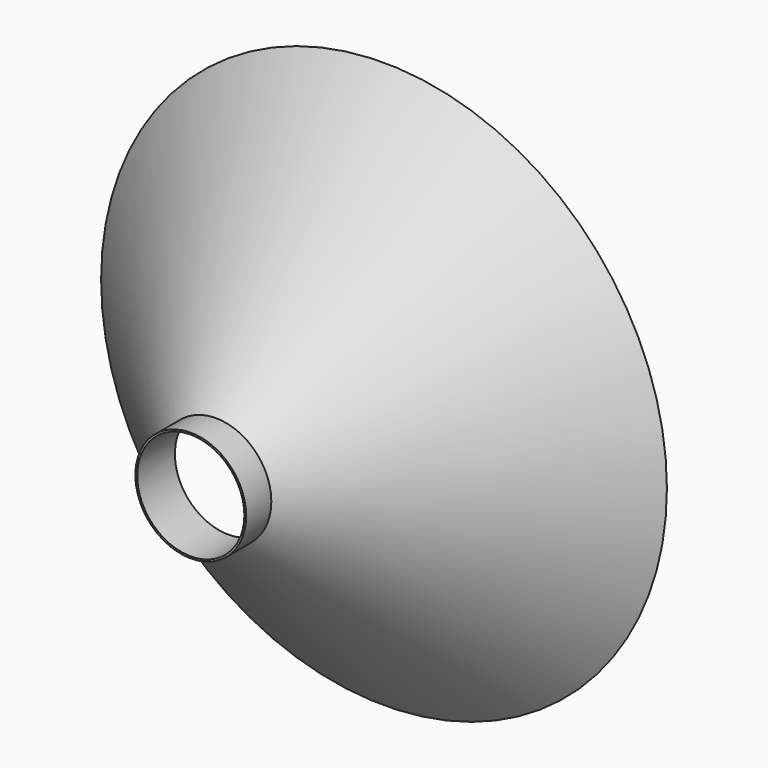
from build123d import *

# Parameters (mm, degrees)
F2_R     = 13.141948
F3_DEPTH = 25.4


with BuildPart() as f1:
    # F0 (on Top) → F1 (revolve)
    with BuildSketch(Plane.XY):
        Polygon((26.467187, 42.388063), (24.033424, 43.60494), (-29.306578, -5.273156), (-42.895097, -5.273156), (-42.895097, -16.833536), (-29.306578, -16.833536), (-29.306578, -9.126616), align=None)
    revolve(axis=Axis((-42.895097, -11.053346, 0), (0, -1, 0)))

    # F2 (on face) → F3 (cut)
    with BuildSketch(Plane.XZ.offset(16.833536)):
        with Locations((-42.895097, 0)):
            Circle(F2_R)
    extrude(amount=-F3_DEPTH, mode=Mode.SUBTRACT)


solid = f1.part
